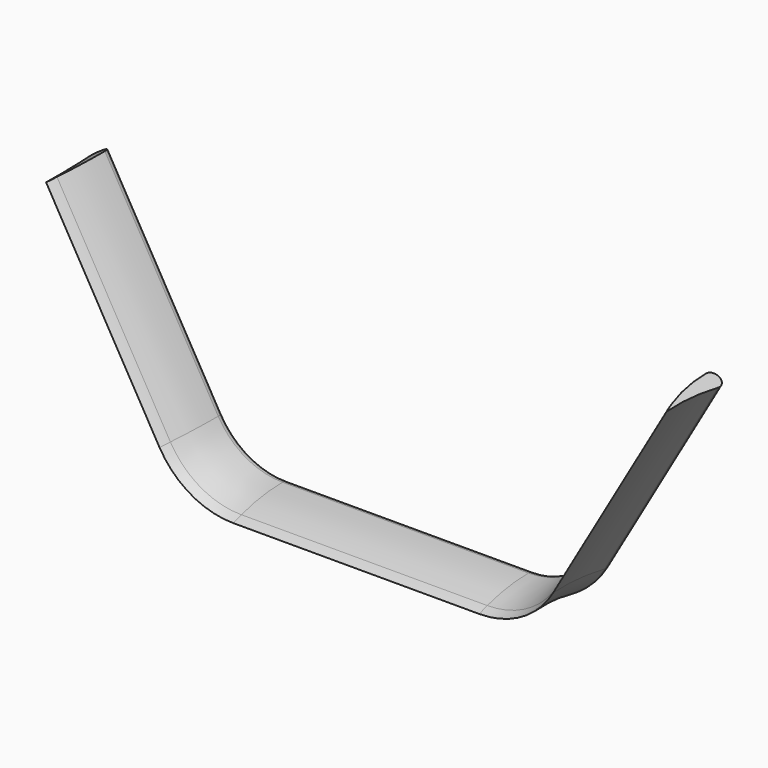
from build123d import *


with BuildPart() as f2:
    # F2: sweep along a path in F0
    with BuildLine(Plane.XZ) as f2_path:
        Line((0, 0), (304.8, 0))
        ThreePointArc((304.8, 0), (406.4, 27.223638), (480.776362, 101.6))
        Line((480.776362, 101.6), (762, 588.693629))
    # F1 (on Right) → F2 (sweep)
    with BuildSketch(Plane.YZ):
        with BuildLine():
            ThreePointArc((-152.4, -8.31227), (-77.70006, -8.949894), (-3.636381, -18.699712))
            ThreePointArc((-3.636381, -18.699712), (18.963441, -1.813946), (-0.025438, 19.049983))
            ThreePointArc((-0.025438, 19.049983), (-64.556873, 14.218416), (-127.687585, 0))
            ThreePointArc((-127.687585, 0), (-140.105203, -3.97356), (-152.4, -8.31227))
        make_face()
    sweep(path=f2_path.line)

    # F3: F2 across plane


with BuildPart() as f2_1:
    add(f2.part)
    add(f2.part.mirror(Plane.YZ))


solid = f2_1.part
